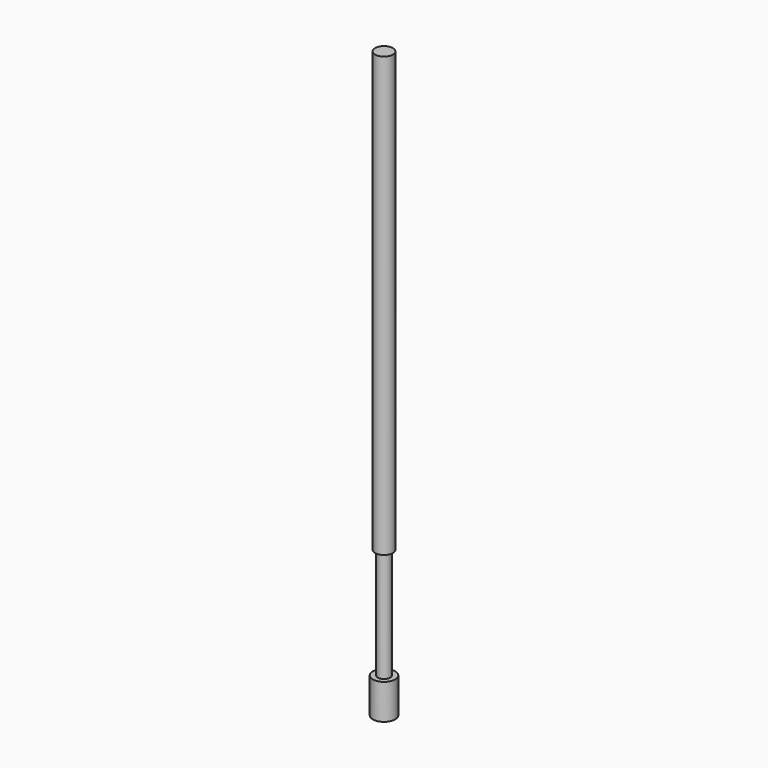
from build123d import *

# Parameters (mm, degrees)
F0_R     = 0.508
F1_DEPTH = 24.9936
F2_R     = 0.3556
F3_DEPTH = 6.2992
F4_R     = 0.635
F5_DEPTH = 2.0066


with BuildPart() as f1:
    # F0 (on Top) → F1 (new body)
    with BuildSketch(Plane.XY):
        Circle(F0_R)
    extrude(amount=F1_DEPTH)

    # F2 (on face) → F3 (join)
    with BuildSketch(Plane(origin=(0, 0, 0), x_dir=(1, 0, 0), z_dir=(0, 0, -1))):
        Circle(F2_R)
    extrude(amount=F3_DEPTH)

    # F4 (on face) → F5 (join)
    with BuildSketch(Plane(origin=(0, 0, -6.2992), x_dir=(1, 0, 0), z_dir=(0, 0, -1))):
        Circle(F4_R)
    extrude(amount=F5_DEPTH)


solid = f1.part
